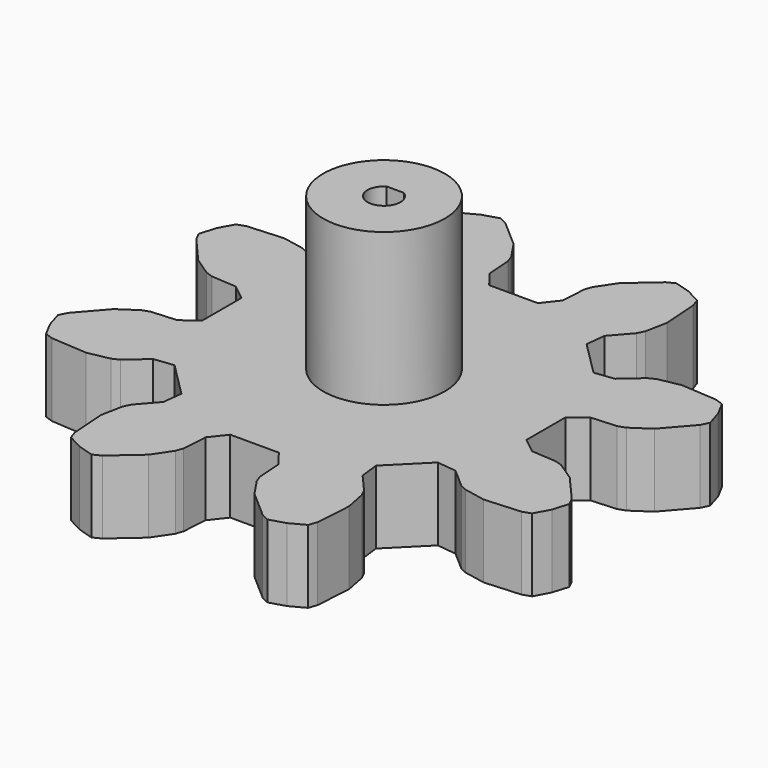
from build123d import *

# Parameters (mm, degrees)
F1_DEPTH = 15.24
F2_R     = 12.7
F3_DEPTH = 31.75
F4_DEPTH = 25.4


with BuildPart() as f1:
    # F0 (on Top) → F1 (new body)
    with BuildSketch(Plane.XY):
        Polygon((-48.986719159, 25.3412460777), (-50.7255351294, 24.7465363945), (-52.3601977854, 21.688304154), (-53.366815822, 18.3699267661), (-52.5578082129, 16.719871907), (-47.6057296253, 11.0468524364), (-43.80914346, 8.4974130761), (-42.2801519731, 7.9744654227), (-37.0147232049, 7.6171909331), (-33.782, 5.0679251692), (-33.782, -5.0679251692), (-37.0147232049, -7.6171909331), (-42.2801519731, -7.9744654227), (-43.80914346, -8.4974130761), (-47.6057296253, -11.0468524364), (-52.5578082129, -16.719871907), (-53.366815822, -18.3699267661), (-52.3601977854, -21.688304154), (-50.7255351294, -24.7465363945), (-48.986719159, -25.3412460777), (-41.4736370284, -25.8510271212), (-36.9863201834, -24.9691669416), (-35.5353802528, -24.2577827562), (-31.559527, -20.7871925925), (-27.4710453735, -20.303918365), (-20.303918365, -27.4710453735), (-20.7871925925, -31.559527), (-24.2577827562, -35.5353802528), (-24.9691669416, -36.9863201834), (-25.8510271212, -41.4736370284), (-25.3412460777, -48.986719159), (-24.7465363945, -50.7255351294), (-21.688304154, -52.3601977854), (-18.3699267661, -53.366815822), (-16.719871907, -52.5578082129), (-11.0468524364, -47.6057296253), (-8.4974130761, -43.80914346), (-7.9744654227, -42.2801519731), (-7.6171909331, -37.0147232049), (-5.0679251692, -33.782), (5.0679251692, -33.782), (7.6171909331, -37.0147232049), (7.9744654227, -42.2801519731), (8.4974130761, -43.80914346), (11.0468524364, -47.6057296253), (16.719871907, -52.5578082129), (18.3699267661, -53.366815822), (21.688304154, -52.3601977854), (24.7465363945, -50.7255351294), (25.3412460777, -48.986719159), (25.8510271212, -41.4736370284), (24.9691669416, -36.9863201834), (24.2577827562, -35.5353802528), (20.7871925925, -31.559527), (20.303918365, -27.4710453735), (27.4710453735, -20.303918365), (31.559527, -20.7871925925), (35.5353802528, -24.2577827562), (36.9863201834, -24.9691669416), (41.4736370284, -25.8510271212), (48.986719159, -25.3412460777), (50.7255351294, -24.7465363945), (52.3601977854, -21.688304154), (53.366815822, -18.3699267661), (52.5578082129, -16.719871907), (47.6057296253, -11.0468524364), (43.80914346, -8.4974130761), (42.2801519731, -7.9744654227), (37.0147232049, -7.6171909331), (33.782, -5.0679251692), (33.782, 5.0679251692), (37.0147232049, 7.6171909331), (42.2801519731, 7.9744654227), (43.80914346, 8.4974130761), (47.6057296253, 11.0468524364), (52.5578082129, 16.719871907), (53.366815822, 18.3699267661), (52.3601977854, 21.688304154), (50.7255351294, 24.7465363945), (48.986719159, 25.3412460777), (41.4736370284, 25.8510271212), (36.9863201834, 24.9691669416), (35.5353802528, 24.2577827562), (31.559527, 20.7871925925), (27.4710453735, 20.303918365), (20.303918365, 27.4710453735), (20.7871925925, 31.559527), (24.2577827562, 35.5353802528), (24.9691669416, 36.9863201834), (25.8510271212, 41.4736370284), (25.3412460777, 48.986719159), (24.7465363945, 50.7255351294), (21.688304154, 52.3601977854), (18.3699267661, 53.366815822), (16.719871907, 52.5578082129), (11.0468524364, 47.6057296253), (8.4974130761, 43.80914346), (7.9744654227, 42.2801519731), (7.6171909331, 37.0147232049), (5.0679251692, 33.782), (-5.0679251692, 33.782), (-7.6171909331, 37.0147232049), (-7.9744654227, 42.2801519731), (-8.4974130761, 43.80914346), (-11.0468524364, 47.6057296253), (-16.719871907, 52.5578082129), (-18.3699267661, 53.366815822), (-21.688304154, 52.3601977854), (-24.7465363945, 50.7255351294), (-25.3412460777, 48.986719159), (-25.8510271212, 41.4736370284), (-24.9691669416, 36.9863201834), (-24.2577827562, 35.5353802528), (-20.7871925925, 31.559527), (-20.303918365, 27.4710453735), (-27.4710453735, 20.303918365), (-31.559527, 20.7871925925), (-35.5353802528, 24.2577827562), (-36.9863201834, 24.9691669416), (-41.4736370284, 25.8510271212), align=None)
        Polygon((-6.457554456, 6.1279886028), (-5.0423575535, 7.3366771559), (-3.4067913067, 8.2247200336), (-1.622328418, 8.7533028893), (0.2330374214, 8.8993240645), (2.0782189459, 8.6564005578), (3.8325695574, 8.0351529003), (5.4194220185, 7.0627288788), (6.7694179402, 5.7816284228), (7.8235568446, 4.247847459), (8.5357689507, 2.5284119549), (8.8749315621, 0.6984712932), (8.8262133252, -1.1619911548), (8.3917463583, -2.9716744665), (7.5905194232, -4.6514766054), (6.457554456, -6.1279886028), (5.0423575535, -7.3366771559), (3.4067913067, -8.2247200336), (1.622328418, -8.7533028893), (-0.2330374214, -8.8993240645), (-2.0782189459, -8.6564005578), (-3.8325695574, -8.0351529003), (-5.4194220185, -7.0627288788), (-6.7694179402, -5.7816284228), (-7.8235568446, -4.247847459), (-8.5357689507, -2.5284119549), (-8.8749315621, -0.6984712932), (-8.8262133252, 1.1619911548), (-8.3917463583, 2.9716744665), (-7.5905194232, 4.6514766054), align=None, mode=Mode.SUBTRACT)
        Polygon((-3.4067913067, 8.2247200336), (-5.0423575535, 7.3366771559), (-6.457554456, 6.1279886028), (-7.5905194232, 4.6514766054), (-8.3917463583, 2.9716744665), (-8.8262133252, 1.1619911548), (-8.8749315621, -0.6984712932), (-8.5357689507, -2.5284119549), (-7.8235568446, -4.247847459), (-6.7694179402, -5.7816284228), (-5.4194220185, -7.0627288788), (-3.8325695574, -8.0351529003), (-2.0782189459, -8.6564005578), (-0.2330374214, -8.8993240645), (1.622328418, -8.7533028893), (3.4067913067, -8.2247200336), (5.0423575535, -7.3366771559), (6.457554456, -6.1279886028), (7.5905194232, -4.6514766054), (8.3917463583, -2.9716744665), (8.8262133252, -1.1619911548), (8.8749315621, 0.6984712932), (8.5357689507, 2.5284119549), (7.8235568446, 4.247847459), (6.7694179402, 5.7816284228), (5.4194220185, 7.0627288788), (3.8325695574, 8.0351529003), (2.0782189459, 8.6564005578), (0.2330374214, 8.8993240645), (-1.622328418, 8.7533028893), align=None)
    extrude(amount=F1_DEPTH)

    # F2 (on face) → F3 (join)
    with BuildSketch(Plane.XY.offset(15.24)):
        Circle(F2_R)
        with BuildLine():
            ThreePointArc((1.7960512242, 2.921), (2.9930503377, 1.6732276223), (3.429, 0))
            ThreePointArc((3.429, 0), (-1.6732276223, -2.9930503377), (-1.7960512242, 2.921))
            ThreePointArc((-1.7960512242, 2.921), (0, 3.429), (1.7960512242, 2.921))
        make_face(mode=Mode.SUBTRACT)
        with BuildLine():
            Line((-1.7960512242, 2.921), (1.7960512242, 2.921))
            ThreePointArc((1.7960512242, 2.921), (0, 3.429), (-1.7960512242, 2.921))
        make_face()
    extrude(amount=F3_DEPTH)

    # F4 (cut): a face of the model
    f4_faces = [f1.faces().sort_by_distance(p)[0] for p in [
        (0, -0.108182678, 15.24),
    ]]
    extrude(f4_faces, amount=-F4_DEPTH, mode=Mode.SUBTRACT)


solid = f1.part
